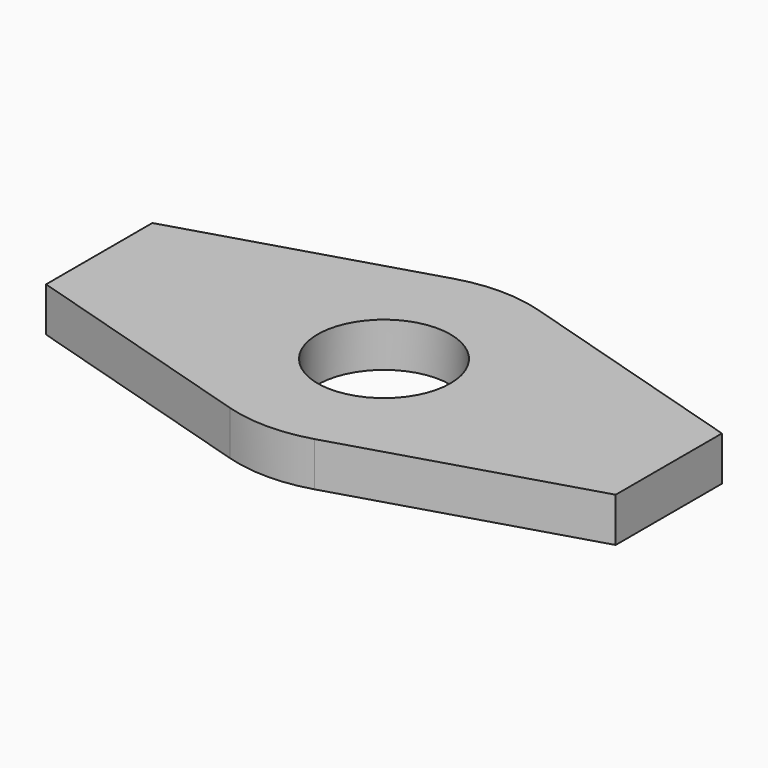
from build123d import *

# Parameters (mm, degrees)
SKETCH_R  = 2.25
PAD_DEPTH = 1.5


with BuildPart() as part:
    # Sketch → Pad (new body)
    with BuildSketch(Plane.XY):
        with BuildLine():
            ThreePointArc((1.434501, 4.737584), (0, 4.95), (-1.434501, 4.737584))
            Line((-9.65, 2.25), (-1.434501, 4.737584))
            Line((-9.65, 2.25), (-9.65, -2.25))
            Line((-9.65, -2.25), (-1.434501, -4.737584))
            ThreePointArc((-1.434501, -4.737584), (0, -4.95), (1.434501, -4.737584))
            Line((1.434501, -4.737584), (9.65, -2.25))
            Line((9.65, 2.25), (9.65, -2.25))
            Line((1.434501, 4.737584), (9.65, 2.25))
        make_face()
        Circle(SKETCH_R, mode=Mode.SUBTRACT)
    extrude(amount=PAD_DEPTH)


solid = part.part
